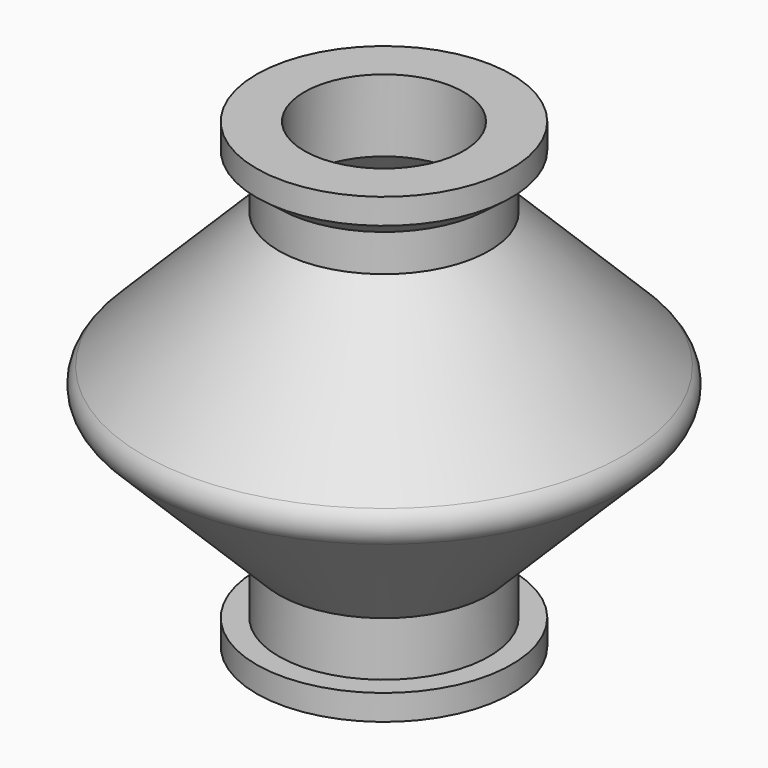
from build123d import *


with BuildPart() as f1:
    # F0 (on Front) → F1 (revolve)
    with BuildSketch(Plane.XZ):
        with BuildLine():
            Line((-2.5, 4.984315), (-2.5, 7.25))
            Line((-2.5, 7.25), (-4, 7.25))
            Line((-4, 7.25), (-4, 6.45))
            Line((-4, 6.45), (-3.3, 5.914898))
            Line((-3.3, 5.914898), (-3.3, 4.75))
            Line((-3.3, 4.75), (-7.555127, 0.494873))
            ThreePointArc((-7.555127, 0.494873), (-7.76011, 0), (-7.555127, -0.494873))
            Line((-7.555127, -0.494873), (-3.3, -4.75))
            Line((-3.3, -4.75), (-3.3, -6.45))
            Line((-3.3, -6.45), (-4, -6.45))
            Line((-4, -6.45), (-4, -7.25))
            Line((-4, -7.25), (-2.5, -7.25))
            Line((-2.5, -7.25), (-2.5, -4.984315))
            Line((-2.5, -4.984315), (-6.989442, -0.494872))
            ThreePointArc((-6.989442, -0.494872), (-7.194425, 0), (-6.989442, 0.494872))
            Line((-6.989442, 0.494872), (-2.5, 4.984315))
        make_face()
    revolve(axis=Axis((0, 0, -0.799421), (0, 0, -1)))


solid = f1.part
